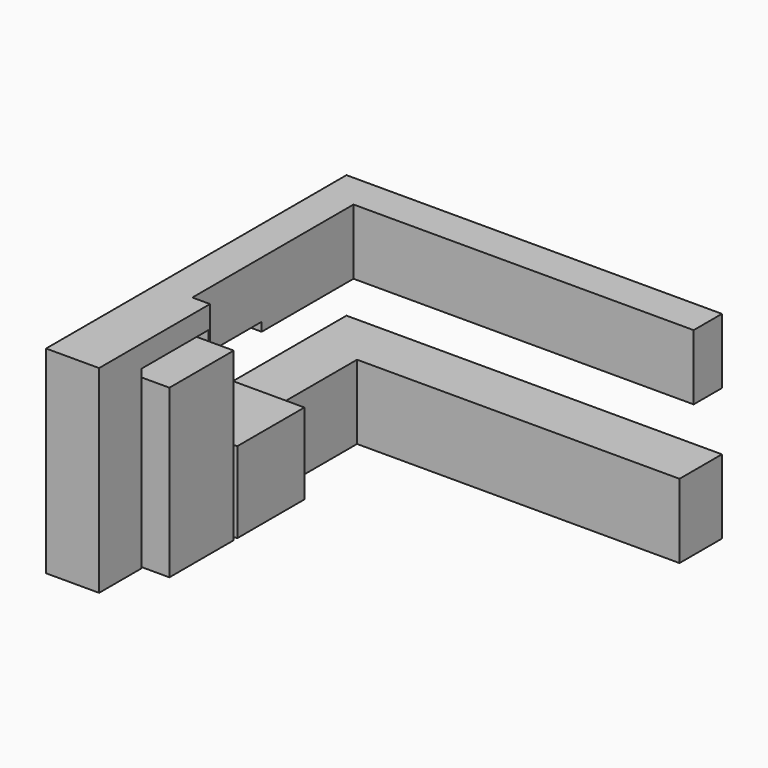
from build123d import *

# Parameters (mm, degrees)
F1_DEPTH  = 840
F2_W      = 600
F2_H      = 600
F3_DEPTH  = 1400
F4_W      = 950
F4_H      = 250
F5_DEPTH  = 600
F6_W      = 1950
F6_H      = 840
F7_DEPTH  = 600.001
F8_W      = 20
F8_H      = 2240
F9_DEPTH  = 600
F10_W     = 2680
F10_H     = 740
F11_DEPTH = 400
F12_W     = 3850
F12_H     = 400
F13_DEPTH = 740
F14_W     = 980
F14_H     = 100
F15_DEPTH = 400.001
F16_W     = 910
F16_H     = 1890
F16_W_2   = 950
F16_H_2   = 916.58007
F17_DEPTH = 900


with BuildPart() as f1:
    # F0 (on Top) → F1 (new body)
    with BuildSketch(Plane.XY):
        Polygon((3650, 600), (-600, 600), (-600, -3650), (0, -3650), (0, 0), (3650, 0), align=None)
    extrude(amount=F1_DEPTH)

    # F2 (on face) → F3 (join)
    with BuildSketch(Plane.XY.offset(840)):
        with Locations((-300, -3350)):
            Rectangle(F2_W, F2_H)
    extrude(amount=F3_DEPTH)

    # F4 (on face) → F5 (join, through all)
    with BuildSketch(Plane.YZ):
        with Locations((-2575, 2115)):
            Rectangle(F4_W, F4_H)
    extrude(amount=-F5_DEPTH)

    # F6 (on face) → F7 (cut, through all)
    with BuildSketch(Plane.YZ):
        with Locations((-2075, 420)):
            Rectangle(F6_W, F6_H)
    extrude(amount=-F7_DEPTH, mode=Mode.SUBTRACT)

    # F8 (on face) → F9 (join, through all)
    with BuildSketch(Plane(origin=(-600, 0, 0), x_dir=(0, -1, 0), z_dir=(-1, 0, 0))):
        with Locations((2090, 1120)):
            Rectangle(F8_W, F8_H)
    extrude(amount=-F9_DEPTH)

    # F10 (on face) → F11 (join)
    with BuildSketch(Plane(origin=(-600, 0, 0), x_dir=(0, -1, 0), z_dir=(-1, 0, 0))):
        with Locations((740, 1870)):
            Rectangle(F10_W, F10_H)
    extrude(amount=-F11_DEPTH)

    # F12 (on face) → F13 (join, through all)
    with BuildSketch(Plane.XY.offset(2240)):
        with Locations((1725, 400)):
            Rectangle(F12_W, F12_H)
    extrude(amount=-F13_DEPTH)

    # F14 (on face) → F15 (cut, through all)
    with BuildSketch(Plane.YZ.offset(-200)):
        with Locations((-1590, 1550)):
            Rectangle(F14_W, F14_H)
    extrude(amount=-F15_DEPTH, mode=Mode.SUBTRACT)


with BuildPart() as f17:
    # F16 (on face) → F17 (new body)
    with BuildSketch(Plane(origin=(-600, 0, 0), x_dir=(0, -1, 0), z_dir=(-1, 0, 0))):
        with Locations((2575, 945)):
            Rectangle(F16_W, F16_H)
        with Locations((1595, 458.290035)):
            Rectangle(F16_W_2, F16_H_2)
    extrude(amount=-F17_DEPTH)


solid = Compound([f1.part, f17.part])
